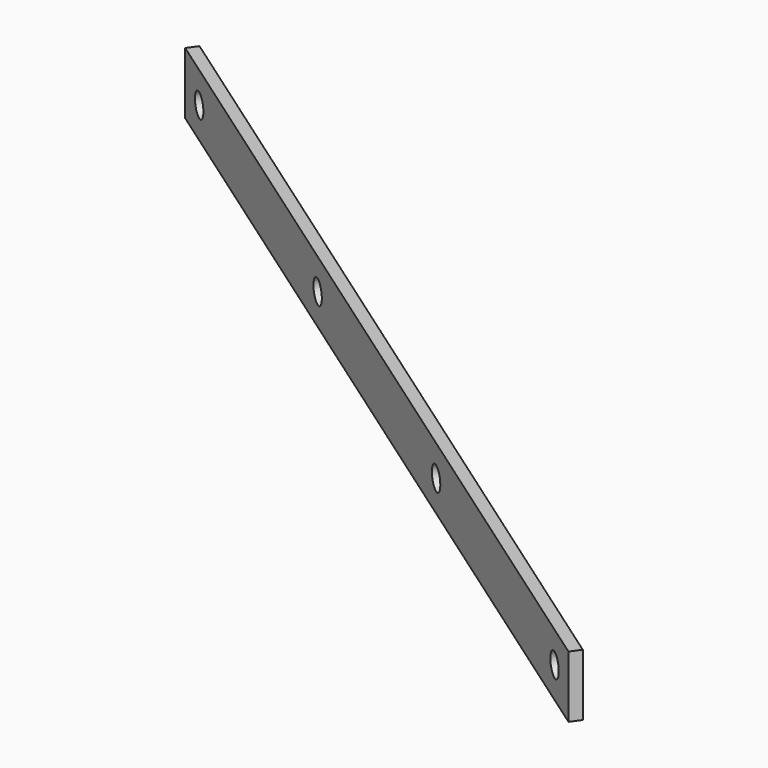
from build123d import *

# Parameters (mm, degrees)
SKETCH046_W             = 550
SKETCH046_H             = 6
PAD009_DEPTH            = 32
SKETCH047_R             = 6
POCKET004_DEPTH         = 6.001
LINEARPATTERN002_COUNT  = 4
LINEARPATTERN002_PITCH  = 170
BODY006_PLACEMENT_ANGLE = 325


with BuildPart() as part:
    # Sketch046 → Pad009 (new body)
    with BuildSketch(Plane.XY):
        with Locations((275, 3)):
            Rectangle(SKETCH046_W, SKETCH046_H)
    extrude(amount=PAD009_DEPTH)

    # Sketch047 (on Face1 of Pad009) → Pocket004 (cut, through all)
    with BuildSketch(Plane.XZ):
        with Locations((20, 16)):
            Circle(SKETCH047_R)
    pocket004 = extrude(amount=-POCKET004_DEPTH, mode=Mode.SUBTRACT)

    # LinearPattern002: Pocket004 ×4
    with Locations(*[(i * LINEARPATTERN002_PITCH, 0, 0) for i in range(1, LINEARPATTERN002_COUNT)]):
        add(pocket004, mode=Mode.SUBTRACT)


with BuildPart() as part_1:
    # Body006 placement: moved
    add(part.part.moved(Location((-460.212515, 336.893567, 18))).rotate(Axis((-460.212515, 336.893567, 18), (0, 0, 1)), BODY006_PLACEMENT_ANGLE))


solid = part_1.part
